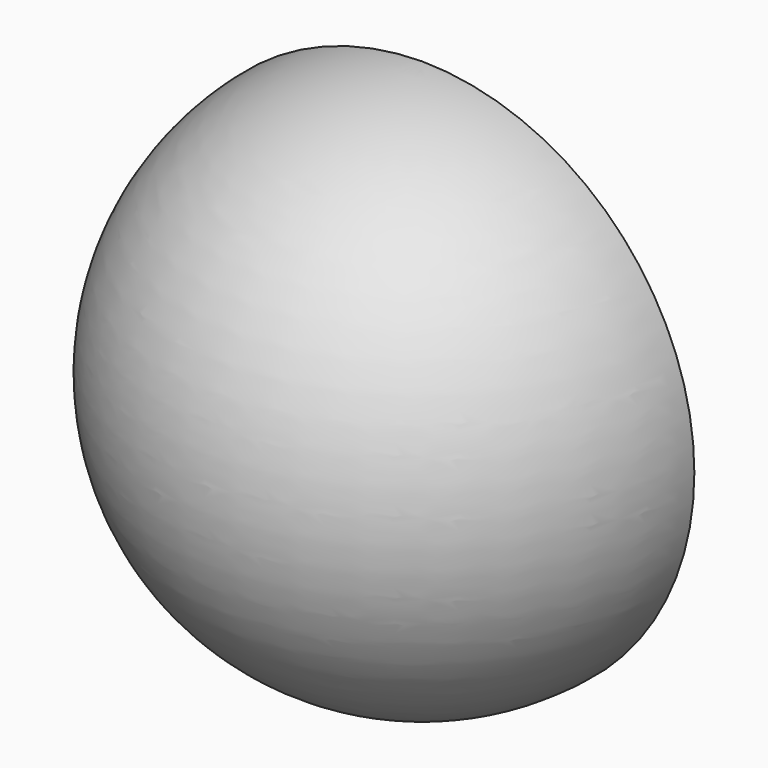
from build123d import *

# Parameters (mm, degrees)
F3_ANGLE_BACK  = 20
F3_ANGLE       = 240
F5_ANGLE_START = 90
F5_ANGLE       = 180
F7_DEPTH       = 1.27
F9_DEPTH       = 5.08
F11_DEPTH      = 5.08
F13_DEPTH      = 5.08
F15_DEPTH      = 5.08
F17_DEPTH      = 5.08
F19_DEPTH      = 5.08
F21_DEPTH      = 5.08
F23_DEPTH      = 2.54
F25_DEPTH      = 1.27
F27_DEPTH      = 1.5
F29_DEPTH      = 0.5
F31_DEPTH      = 1.5
F33_DEPTH      = 1
F35_DEPTH      = 1
F37_DEPTH      = 1
F39_DEPTH      = 1
F40_R          = 1.4622806026
F41_DEPTH      = 1
F42_R          = 1.3158216026
F43_DEPTH      = 1
F44_R          = 1.4409552619
F45_DEPTH      = 1
F46_R          = 1.5256752149
F47_DEPTH      = 1
F48_R          = 1.602945451
F49_DEPTH      = 1
F50_R          = 1.8110791346
F51_DEPTH      = 1
F53_DEPTH      = 1
F55_DEPTH      = 1


with BuildPart() as f1:
    # F0 (on Front) → F1 (revolve)
    with BuildSketch(Plane.XZ):
        with BuildLine():
            Line((0, 12.7), (0, 0))
            ThreePointArc((0, 0), (6.3965167452, 6.35), (0, 12.7))
        make_face()
    revolve(axis=Axis((0, 0, 6.35), (0, 0, 1)))

    # F2 (on Front) → F3 (revolve)
    with BuildSketch(Plane.XZ, mode=Mode.PRIVATE) as f3_sk:
        with BuildLine():
            ThreePointArc((0, 18.7301683524), (-12.5858080285, 6.0301683524), (0, -6.6698316476))
            Line((0, -6.6698316476), (0, 18.7301683524))
        make_face()
    revolve(f3_sk.sketch.rotate(Axis((0, 0, 6.0301683524), (0, 0, 1)), -F3_ANGLE_BACK), axis=Axis((0, 0, 6.0301683524), (0, 0, 1)), revolution_arc=F3_ANGLE)

    # F4 (on Right) → F5 (revolve)
    with BuildSketch(Plane.YZ, mode=Mode.PRIVATE) as f5_sk:
        with BuildLine():
            ThreePointArc((0, -45.4096257787), (50.5095796168, 5.3903742213), (0, 56.1903742213))
            Line((0, 56.1903742213), (0, -45.4096257787))
        make_face()
    revolve(f5_sk.sketch.rotate(Axis((0, 0, 5.3903742213), (0, 0, -1)), F5_ANGLE_START), axis=Axis((0, 0, 5.3903742213), (0, 0, -1)), revolution_arc=F5_ANGLE)

    # F6 (on Front) → F7 (join)
    with BuildSketch(Plane.XZ):
        with BuildLine():
            add(Edge.make_bspline(
                [(9.5902746543, -35.3813692927), (12.7477321311, -36.1447814416), (19.0151968638, -37.376321608), (28.3629897746, -28.2826923133), (28.9061509249, -22.9283640211), (22.8757703503, -21.1356977936), (19.5219051849, -27.0429989118), (14.3535483402, -32.9445238458), (7.9454963154, -27.2717717051), (1.8129067274, -33.3320248796), (6.9980636772, -34.754622815), (9.5902746543, -35.3813692927)],
                knots=[0, 0, 0, 0, 0.1319009064, 0.2821104756, 0.3707565071, 0.4616745568, 0.5719712881, 0.6829691541, 0.7954704667, 0.8917119296, 1, 1, 1, 1], degree=3))
        make_face()
    extrude(amount=-F7_DEPTH)

    # F8 (on Front) → F9 (join)
    with BuildSketch(Plane.XZ):
        with BuildLine():
            add(Edge.make_bspline(
                [(-12.5426286831, 2.2355041001), (-11.5441254538, 1.5865355682), (-10.197231517, -0.9059319581), (-15.8337607682, 0.9951664788), (-10.5106177457, -3.4778248816), (-7.7646640542, -4.5568043492), (-9.4991860446, -7.0538118103), (-12.2763621502, -3.4562986973), (-14.5506662882, -5.5910976162), (-4.9363675691, -8.8312844846), (-2.1764161182, -8.4617274194), (-2.1458120184, -11.9312913595), (-12.409112101, -9.6505005215), (-20.5640797372, -1.1452566638), (-19.4131433358, 3.4321732614), (-17.7813586973, -0.1305620382), (-14.9419374732, -3.9282914342), (-14.1957913507, -2.3857754133), (-17.3901893492, -0.250088629), (-16.8146732132, 2.8379302677), (-13.7710982863, 3.0339372862), (-12.5426286831, 2.2355041001)],
                knots=[0, 0, 0, 0, 0.0455390939, 0.0908374227, 0.1516944496, 0.2005061166, 0.2352899552, 0.2898301678, 0.3189489485, 0.4046792631, 0.4516007141, 0.4873130296, 0.5726952698, 0.6724814447, 0.7165357128, 0.7652167993, 0.8247536999, 0.8473401308, 0.9007313302, 0.9439727474, 1, 1, 1, 1], degree=3))
        make_face()
    extrude(amount=-F9_DEPTH)

    # F10 (on Front) → F11 (join)
    with BuildSketch(Plane.XZ):
        with BuildLine():
            add(Edge.make_bspline(
                [(-7.6560019515, -12.0097156614), (-6.1984980323, -12.2889192523), (-4.2217563054, -12.2521957023), (-6.847479778, -16.9245229405), (-15.5836992132, -9.6726629334), (-15.1030959783, -13.0382018548), (-10.9239006832, -14.46526715), (-11.6411762705, -18.260250333), (-20.8539099252, -10.2222723754), (-18.5265444473, -13.9668675997), (-21.0471374815, -15.2879941802), (-29.3752146073, -9.377065702), (-23.2249659715, -9.6404746575), (-21.9849123192, -11.4429534979), (-17.8096110464, -9.6352893687), (-27.2574762571, -8.1161266357), (-23.6887077264, -5.9833892033), (-19.2311824989, -8.2451429732), (-10.7356363954, -11.4197721394), (-7.6560019515, -12.0097156614)],
                knots=[0, 0, 0, 0, 0.0502519588, 0.0996389289, 0.1895259775, 0.2224964366, 0.2855939417, 0.3218702372, 0.410542033, 0.4473403685, 0.489509101, 0.5709948259, 0.6233931178, 0.6708900015, 0.7115837933, 0.7862064686, 0.8243591419, 0.8938200705, 1, 1, 1, 1], degree=3))
        make_face()
    extrude(amount=-F11_DEPTH)

    # F12 (on Front) → F13 (join)
    with BuildSketch(Plane.XZ):
        with BuildLine():
            add(Edge.make_bspline(
                [(-17.9545301944, -5.4402379319), (-17.2383580703, -5.7068632422), (-16.1122231276, -6.1352105349), (-18.0098519657, -8.8223139125), (-20.8755540887, -4.0472528013), (-23.3765682544, -6.4637204582), (-24.8585132176, -2.3587622936), (-29.7070173665, 4.809455835), (-25.5212402794, 7.0409028359), (-25.934330681, 1.5178236736), (-22.1187324351, 4.678967659), (-25.8191914339, 7.2653586111), (-22.1284356235, 9.1745188722), (-21.3727721543, 6.5518922811), (-21.8704191125, 4.2815984574), (-17.2559368124, 4.6588488343), (-20.5253129915, 3.069864034), (-23.0371018, 3.2225870352), (-23.1332252042, -0.1936709766), (-22.1255306302, -3.9100351996), (-19.1013262902, -5.013294667), (-17.9545301944, -5.4402379319)],
                knots=[0, 0, 0, 0, 0.0400410978, 0.0805967339, 0.1443207813, 0.1885201081, 0.2481325065, 0.3382751485, 0.3829855588, 0.4394261088, 0.487863884, 0.5425305579, 0.5904921475, 0.6361045478, 0.678870963, 0.7297288814, 0.7741667715, 0.8226685925, 0.8747870962, 0.9358827674, 1, 1, 1, 1], degree=3))
        make_face()
    extrude(amount=-F13_DEPTH)

    # F14 (on Front) → F15 (join)
    with BuildSketch(Plane.XZ):
        with BuildLine():
            add(Edge.make_bspline(
                [(-14.633175917, 6.8573849276), (-13.933060418, 6.5125316065), (-13.5689976986, 4.6593511977), (-14.9488531712, 3.6839874084), (-18.8410235462, 2.4706637464), (-16.7677108469, 4.749853118), (-17.1666663833, 5.0050424308), (-16.4029914661, 6.6163632745), (-19.1728705203, 4.8596434101), (-20.9994961833, 7.5928874971), (-17.7502536086, 10.5730535944), (-18.4785221925, 6.3685120204), (-15.4967413938, 7.2827482042), (-14.633175917, 6.8573849276)],
                knots=[0, 0, 0, 0, 0.0956331505, 0.1854658986, 0.2927075101, 0.3788424862, 0.420438691, 0.4838714709, 0.5786532514, 0.6801514668, 0.7859390279, 0.8820401957, 1, 1, 1, 1], degree=3))
        make_face()
    extrude(amount=-F15_DEPTH)

    # F16 (on Front) → F17 (join)
    with BuildSketch(Plane.XZ):
        with BuildLine():
            add(Edge.make_bspline(
                [(6.0594175011, 18.1751493365), (6.8396355354, 17.7583440679), (9.376433905, 16.6627344509), (10.3029938377, 14.4757641251), (12.1285824514, 12.3126579911), (13.3645076134, 9.576842471), (12.879786876, 7.111260821), (16.4215509611, 6.7509905625), (15.4399720876, 9.2068497454), (14.4464224742, 10.0092268326), (16.1398902747, 10.8928364917), (17.0417863913, 8.4587620026), (16.341399633, 4.7779682828), (19.1293233329, 4.1719195104), (18.5841772821, 7.4080009645), (18.8081892722, 12.2851380554), (15.6966668914, 11.5538617637), (14.4358544795, 11.1188891974), (14.5391868907, 12.3341658092), (12.6914967559, 15.0507601117), (8.8411346407, 17.5095356876), (11.0876056229, 18.692256008), (12.6278378168, 15.6966687984), (14.307153569, 12.4915332909), (16.5746359262, 11.7221645884), (16.258058069, 13.4092934419), (13.99584058, 15.8546757094), (12.6726785167, 19.134692626), (9.6802790385, 19.8858756365), (8.9597980085, 17.8131634418), (5.0933597352, 19.1847111807), (5.8354583065, 20.2981448419), (4.1194835679, 21.1957396461), (3.7332062534, 18.4137637061), (5.1399132876, 18.7556546032), (5.6110423745, 18.4146786819), (6.0594175011, 18.1751493365)],
                knots=[0, 0, 0, 0, 0.0376791717, 0.0688500607, 0.1028012543, 0.1379654731, 0.1669375187, 0.1966368326, 0.2243249481, 0.2447724013, 0.2657309629, 0.2951739001, 0.333360331, 0.3580495441, 0.3915266587, 0.4331797708, 0.4643066937, 0.4850837543, 0.5028081772, 0.5408818572, 0.5801982908, 0.6016104246, 0.6365530027, 0.676972746, 0.7023647285, 0.7228122272, 0.7605127105, 0.7989517092, 0.8298284757, 0.8557464131, 0.8916046183, 0.910067576, 0.9314244863, 0.9587903186, 0.9783465613, 1, 1, 1, 1], degree=3))
        make_face()
    extrude(amount=-F17_DEPTH)

    # F18 (on face) → F19 (join)
    with BuildSketch(Plane(origin=(0, 0, 0), x_dir=(-1, 0, 0), z_dir=(0, 1, 0))):
        with BuildLine():
            add(Edge.make_bspline(
                [(-6.92697661, 21.0416950285), (-6.0741016125, 21.4981772414), (-5.2778359982, 23.2021635487), (-9.4870120879, 22.5628880021), (-12.0660030486, 21.1129058744), (-12.9239721183, 22.7739145092), (-14.3369150182, 24.5563915708), (-19.5376796448, 19.6405115002), (-21.7268565755, 15.6688756628), (-25.3370904007, 9.1924473548), (-25.077223425, 4.765438104), (-25.1379710327, 2.7401626209), (-23.8961049562, 1.6999726412), (-22.5149423203, 4.4931168575), (-22.4803741597, 8.7390395678), (-20.29161205, 13.2811795889), (-17.8345547484, 18.7012988848), (-15.0552265399, 20.990288319), (-13.5574141046, 22.3632999267), (-18.0940563929, 16.6009182914), (-21.4702899637, 9.651209069), (-17.0023689206, 14.7323840709), (-14.2126262406, 19.3131745168), (-13.0775952935, 20.8890339557), (-12.6038420407, 20.2645447101), (-8.4598487616, 20.221259591), (-6.92697661, 21.0416950285)],
                knots=[0, 0, 0, 0, 0.0302650223, 0.0715460313, 0.1095531119, 0.1370099135, 0.1653731081, 0.2213595666, 0.2737242003, 0.3347170657, 0.3824677856, 0.413790126, 0.4360397637, 0.4712560841, 0.5190564754, 0.570500299, 0.6266043238, 0.6703402292, 0.6894269534, 0.746984048, 0.80005496, 0.845412437, 0.902679613, 0.929554627, 0.9456046783, 1, 1, 1, 1], degree=3))
        make_face()
    extrude(amount=F19_DEPTH)

    # F20 (on Front) → F21 (join)
    with BuildSketch(Plane.XZ):
        with BuildLine():
            add(Edge.make_bspline(
                [(20.8440348506, 8.6657125503), (21.460775926, 8.2805343083), (21.5610555481, 5.9278272851), (23.0209849715, 2.6138648897), (21.1873616444, -0.445981871), (22.9358404899, 0.1954044927), (24.4564289533, -0.4618821898), (23.9413141213, 2.1064201012), (27.4480758807, 2.3639064149), (25.3497789608, 5.4839172443), (28.5615241655, 7.9403629584), (29.4951692632, 0.5829993394), (25.6007217953, 0.9368864737), (25.3786701295, -3.7164718878), (27.7140466236, 1.8222078027), (30.8040249663, -4.6667087587), (15.0088509022, -10.9464046381), (21.9714665585, -5.3915640246), (23.8229194753, -4.3086383706), (22.5676566996, -3.4129340314), (20.6071708673, -5.1767151849), (19.34046425, -6.3580230735), (17.3376411687, -4.1511013702), (24.1051461479, -2.8208123065), (21.1076904161, -1.3244771782), (14.9909708258, -2.9536300796), (16.5374528678, -5.0614946886), (13.79376948, -4.8633987262), (10.2523257332, -1.3879026522), (15.6674609421, -3.8049356428), (19.352608365, -0.6377093178), (20.8312273306, 3.2539527599), (17.7788386761, -1.3585457338), (12.7426442186, 1.2600984756), (13.5616879638, 7.08452474), (15.4735919706, 3.6444911787), (17.4600526877, 1.8179371808), (20.787526044, 3.8549595077), (18.2168206283, 8.680135787), (20.3673659671, 8.9634103847), (20.8440348506, 8.6657125503)],
                knots=[0, 0, 0, 0, 0.0258137867, 0.0570835138, 0.0814960248, 0.0981736406, 0.1153195996, 0.1357215062, 0.1595723405, 0.1852887972, 0.2075785548, 0.2425722127, 0.2698034329, 0.2928316571, 0.3194478461, 0.3480794258, 0.4005690322, 0.4333772923, 0.4559328736, 0.4698190114, 0.4950089284, 0.5146492836, 0.5330579156, 0.5672554528, 0.586863219, 0.6245554369, 0.6414327184, 0.6639698732, 0.6916731014, 0.7207362987, 0.7565637183, 0.7798752992, 0.8080259076, 0.8416907048, 0.8718121013, 0.8961339619, 0.9217141794, 0.9475474936, 0.9800489551, 1, 1, 1, 1], degree=3))
        make_face()
    extrude(amount=-F21_DEPTH)

    # F22 (on Front) → F23 (join)
    with BuildSketch(Plane.XZ):
        with BuildLine():
            add(Edge.make_bspline(
                [(7.0697143674, -30.6211598217), (6.473330224, -30.8161481504), (6.4838355892, -33.3279895496), (8.3837244869, -35.1527181654), (7.8360736963, -30.431027246), (10.2994082946, -32.9308602424), (8.9971093189, -34.6177702685), (12.1917702924, -34.8587645634), (11.6303124322, -33.4074782726), (14.1436661873, -33.0320696642), (13.6822286057, -35.3546358566), (17.1139650841, -35.7724273819), (15.4651883243, -33.1168538676), (17.037436058, -32.4957524136), (18.4041015737, -34.5193625555), (20.8648316179, -33.7664001499), (18.2294453327, -31.7325582441), (20.2968638709, -30.6370250928), (22.7193311103, -32.3056964438), (25.8401205068, -29.6621108016), (20.2088752653, -29.8492407407), (22.7776252233, -28.7307258771), (25.9057374533, -29.6343069001), (25.7227635391, -27.2655936651), (23.5189246842, -27.1826636703), (25.6903218435, -25.4952429811), (27.8004778525, -26.2835734465), (28.4169943429, -22.3164222923), (24.3630627412, -24.9325227058), (25.3535548567, -21.6098170682), (21.4112385407, -23.4511322419), (23.8719848428, -26.7201338889), (19.41054413, -25.3772110569), (20.3189737791, -28.5263258884), (19.6146719408, -29.7078318461), (17.2961791346, -28.6530956989), (18.9197946028, -31.3539831906), (16.3765296249, -29.9655403848), (16.471903302, -31.6703782027), (16.0982368586, -32.0594403983), (14.3397693372, -30.5595881131), (13.7045684856, -32.6281407762), (11.7192885225, -32.7164427586), (11.5417219108, -29.6157505471), (9.974241675, -32.5220990243), (7.6988501416, -30.4154633182), (7.0697143674, -30.6211598217)],
                knots=[0, 0, 0, 0, 0.0279561314, 0.0480624216, 0.0756637005, 0.098540637, 0.1190952126, 0.1431908571, 0.1594600298, 0.1809485097, 0.2031111632, 0.2269708398, 0.2509734022, 0.2674397419, 0.2932472252, 0.3133627627, 0.3382390061, 0.3578266521, 0.3872001102, 0.4111079211, 0.4411798536, 0.4603701392, 0.4898154206, 0.5096443379, 0.529203841, 0.5515525383, 0.5755995748, 0.6000246607, 0.6278028132, 0.6485074428, 0.6753976109, 0.7010879197, 0.7277965269, 0.753742101, 0.7716140113, 0.7921715215, 0.8123939255, 0.8329987908, 0.851449491, 0.8615214735, 0.8835694239, 0.9050093217, 0.9252270832, 0.9483661556, 0.9705086017, 1, 1, 1, 1], degree=3))
        make_face()
    extrude(amount=-F23_DEPTH)

    # F24 (on Front) → F25 (join)
    with BuildSketch(Plane.XZ):
        with BuildLine():
            add(Edge.make_bspline(
                [(-35.2248437703, 23.2944786549), (-34.1722765892, 23.296218534), (-32.0360433685, 22.7824491991), (-31.832969647, 11.6958873582), (-34.3082989068, 4.7005683956), (-39.6993535413, 4.9792953029), (-42.1600691158, 9.6226585715), (-40.4437107465, 15.4566685329), (-41.3559407838, 22.564748863), (-36.7170469713, 23.2920120635), (-35.2248437703, 23.2944786549)],
                knots=[0, 0, 0, 0, 0.083959275, 0.2558981479, 0.3968122964, 0.5028735834, 0.6155479614, 0.7489071513, 0.8809726342, 1, 1, 1, 1], degree=3))
        make_face()
    extrude(amount=-F25_DEPTH)

    # F26 (on Front) → F27 (join)
    with BuildSketch(Plane.XZ):
        with BuildLine():
            add(Edge.make_bspline(
                [(-38.37743029, 20.8659544587), (-38.9645398333, 20.2220116874), (-38.2966388139, 18.5907956894), (-39.3314757768, 19.1659223145), (-40.1832938659, 18.483261781), (-40.5001958351, 17.1462485884), (-39.0123757506, 17.3000810457), (-38.4751513973, 14.7893055216), (-40.7107861951, 14.6047167689), (-40.9543675354, 12.1061885671), (-38.3322064968, 12.9532304579), (-39.3231970347, 10.7919083474), (-40.9310913733, 10.420689519), (-40.0175635001, 7.8839436688), (-37.0008176896, 9.847520517), (-40.6289675496, 7.1152343331), (-35.8531251159, 5.4919292933), (-36.8129872237, 9.4198165511), (-33.9426364885, 8.7107748797), (-32.9252602882, 11.7739686635), (-36.3487936761, 10.7891399199), (-36.0249166186, 12.8195796131), (-33.6631146955, 12.3494750005), (-32.7017123515, 14.9153091499), (-36.395669193, 14.6982791878), (-36.0589477876, 17.2689157922), (-33.3815814161, 17.0676495249), (-32.4180539661, 20.6009813451), (-36.1459371229, 18.3430648762), (-37.1086633393, 21.0282162729), (-32.4796661639, 21.9108300588), (-37.5392487059, 21.7852734823), (-38.37743029, 20.8659544587)],
                knots=[0, 0, 0, 0, 0.0348475027, 0.0536537202, 0.0792321108, 0.1041881366, 0.1296977374, 0.1631635739, 0.1967209169, 0.2276071362, 0.2590340217, 0.2890676731, 0.3194754322, 0.3519068098, 0.3843213809, 0.4199807871, 0.460309436, 0.4984964312, 0.5344310111, 0.5677426563, 0.6055319088, 0.6302444127, 0.6661293729, 0.6970932168, 0.7377631284, 0.7681198744, 0.8066122585, 0.8412200239, 0.8829284482, 0.9137658429, 0.9502502806, 1, 1, 1, 1], degree=3))
        make_face()
    extrude(amount=-F27_DEPTH)

    # F28 (on Front) → F29 (join)
    with BuildSketch(Plane.XZ):
        with BuildLine():
            add(Edge.make_bspline(
                [(37.7543717623, 26.116348803), (39.8231446731, 25.2108808165), (41.8603180401, 22.7516093715), (46.8551416039, 12.068596993), (42.6872102875, 1.9006857481), (33.2369569147, 2.3864980125), (36.1440038178, 7.686084154), (40.2018065038, 12.6753914321), (35.4099999942, 22.4411652639), (27.9211824778, 20.0914197082), (26.7102699669, 29.0386386086), (35.0323467836, 27.3077345099), (37.7543717623, 26.116348803)],
                knots=[0, 0, 0, 0, 0.0881091072, 0.2144501591, 0.3319811068, 0.4259836006, 0.501860302, 0.5980652894, 0.7091303665, 0.8012605517, 0.8840688654, 1, 1, 1, 1], degree=3))
        make_face()
    extrude(amount=-F29_DEPTH)

    # F30 (on Front) → F31 (join)
    with BuildSketch(Plane.XZ):
        with BuildLine():
            add(Edge.make_bspline(
                [(29.8342183232, 23.6035939306), (29.5306507753, 23.2631606601), (30.0097708083, 21.9646723218), (31.6362754765, 21.6903205058), (31.9091809964, 23.5097429831), (33.8619143878, 23.1755133219), (31.757307405, 21.6547265898), (34.3364500944, 21.0508248393), (34.6390890656, 22.1545327491), (34.7090816221, 22.8061652758), (35.9513089821, 22.3265537616), (34.0030295621, 21.0361273518), (36.5216921825, 19.4430642048), (36.9748792983, 21.9259118916), (38.0816374594, 20.2692548993), (36.0109334182, 19.7574942394), (37.2850924384, 18.2069602029), (38.3832742164, 19.5093001004), (39.3628722171, 17.9240941105), (37.4540768079, 17.9691562763), (38.2625064189, 15.8888170231), (39.5919507213, 17.3158390384), (40.0846378856, 15.4066268194), (38.6546738372, 15.3694953117), (38.9436524755, 14.006086475), (40.4537305219, 14.3502356708), (40.3721994055, 11.0453917165), (38.0110240024, 11.9881933388), (39.8105043053, 9.8561853727), (37.1853930607, 9.0362080267), (39.3878576072, 7.6391298806), (36.5140944531, 7.1407352027), (35.6435242017, 5.2058383961), (34.6143930605, 3.3888667934), (37.4807831391, 3.8500010619), (36.7406300688, 5.4395206389), (38.4658357179, 6.1771312593), (38.574365098, 4.4675391946), (37.5050693054, 3.0336086829), (40.1143601778, 2.7332400487), (40.0003798521, 5.7718793232), (40.1865017612, 7.4559521246), (43.2929099249, 7.0589178626), (41.1321149792, 8.6389449091), (41.0555189974, 10.072113588), (45.5943446682, 9.3449523046), (41.2765118452, 10.7118417244), (42.0829873045, 12.1222013336), (44.5817913742, 11.016341488), (44.7571106959, 14.3076301817), (42.563641341, 13.7986838613), (42.6919363809, 14.7168679189), (44.319414841, 14.2807180055), (44.2338045963, 16.3007696018), (42.5022574814, 15.4229276343), (42.4844892835, 16.6051644116), (43.6936901734, 15.798382829), (43.4627228598, 18.6288194438), (42.1520338396, 16.7591146112), (41.8705007481, 18.2349467029), (43.2654885458, 18.1917878884), (42.1468071461, 20.3599627942), (41.3084944549, 18.910138372), (40.3089001242, 20.0658942233), (42.1950943716, 20.6889432599), (40.9824271142, 22.4121310392), (39.7281417048, 21.3499316114), (39.153998191, 21.8887610755), (40.2142979275, 23.017289512), (39.2556503325, 24.76168197), (38.209738066, 22.5751951559), (37.1126403865, 22.6362038679), (38.2967386932, 25.9104710938), (36.5624121961, 22.4949350773), (35.2831381012, 23.3944319936), (36.9315241588, 25.2629263094), (34.0532094189, 26.4812700626), (33.6593546517, 23.8561935656), (32.4567515813, 23.9967652419), (33.7556791957, 26.7598647878), (30.3568015366, 26.5178779242), (32.1560953301, 23.9184823418), (30.1640503145, 23.9734812399), (29.8342183232, 23.6035939306)],
                knots=[0, 0, 0, 0, 0.0130242793, 0.0249899392, 0.0381275528, 0.0488358383, 0.0614594393, 0.0750510947, 0.0857761866, 0.0934008356, 0.1022565129, 0.1152297108, 0.1292784711, 0.1423910965, 0.1525874708, 0.1655579324, 0.1769381535, 0.1888533469, 0.1994879042, 0.2111093845, 0.2231779304, 0.2347469143, 0.2461205616, 0.2570321098, 0.2670460114, 0.2782849721, 0.2944202227, 0.3062940491, 0.3194272053, 0.3333208086, 0.345291193, 0.3601686634, 0.376989438, 0.3893223269, 0.4036302117, 0.4157675158, 0.4273064615, 0.4395203286, 0.4520947875, 0.4650560906, 0.4827001027, 0.4958978217, 0.5103787432, 0.5243687611, 0.5347660517, 0.5516438937, 0.5684264819, 0.5781609783, 0.5936195343, 0.6086461825, 0.6221763642, 0.628840915, 0.6409953419, 0.6522465639, 0.6646116302, 0.67226236, 0.6815584613, 0.6947616737, 0.7061442554, 0.7152330108, 0.7253508549, 0.7383163498, 0.7491006108, 0.7586053012, 0.771186337, 0.7833974332, 0.7958530733, 0.8027528006, 0.815487578, 0.8268874877, 0.8415981665, 0.8496606015, 0.8641075294, 0.8797705921, 0.8892796118, 0.9037993474, 0.9183121886, 0.9338711131, 0.9415634919, 0.9572347802, 0.9713224306, 0.9858488696, 1, 1, 1, 1], degree=3))
        make_face()
    extrude(amount=-F31_DEPTH)

    # F32 (on Front) → F33 (join)
    with BuildSketch(Plane.XZ):
        with BuildLine():
            add(Edge.make_bspline(
                [(-8.1785945222, 45.9857136011), (-7.3404542944, 46.4079878284), (-6.4526874326, 46.80983928), (-3.4627414843, 45.4856951635), (-8.0406698727, 43.9962016067), (-12.3297356898, 40.9863098947), (-18.196070641, 38.2422637582), (-14.891553377, 42.4556839503), (-9.8314572678, 45.1529635247), (-8.1785945222, 45.9857136011)],
                knots=[0, 0, 0, 0, 0.1046829318, 0.2023841302, 0.3310685736, 0.5180352274, 0.6658936589, 0.7935589865, 1, 1, 1, 1], degree=3))
        make_face()
    extrude(amount=-F33_DEPTH)

    # F34 (on Front) → F35 (join)
    with BuildSketch(Plane.XZ):
        with BuildLine():
            add(Edge.make_bspline(
                [(0, 46.4690700173), (0.9650424012, 46.5202220624), (2.7570785516, 45.5821213745), (-0.2634860303, 43.2331408677), (-5.6151503573, 40.7464705882), (-10.4134301797, 38.0330227784), (-17.8950613741, 31.6629234965), (-20.7852908474, 35.9462031684), (-16.1676222623, 37.2732894613), (-10.3292729726, 41.2294488094), (-5.6066746279, 43.4147249437), (-1.6462651266, 46.381809781), (0, 46.4690700173)],
                knots=[0, 0, 0, 0, 0.0656020444, 0.1403953492, 0.2517695584, 0.3656813344, 0.4979509661, 0.5707143869, 0.6578088122, 0.7803532721, 0.8880895204, 1, 1, 1, 1], degree=3))
        make_face()
    extrude(amount=-F35_DEPTH)

    # F36 (on Front) → F37 (join)
    with BuildSketch(Plane.XZ):
        with BuildLine():
            add(Edge.make_bspline(
                [(5.6219026446, 45.6869676709), (6.3822658353, 45.8739945644), (7.6860605677, 45.6090025238), (7.1116624331, 40.9431379933), (-2.4377704733, 38.0030979845), (-13.8490908437, 29.7452939501), (-18.3797356284, 27.4006973968), (-22.1541858845, 28.4949779898), (-19.5020254121, 32.2739851963), (-14.1242950438, 33.6451995789), (-9.2409551457, 37.1181317972), (-3.7800865505, 40.2253113586), (-0.2326203943, 42.4589932905), (4.1121083659, 45.3156028585), (5.6219026446, 45.6869676709)],
                knots=[0, 0, 0, 0, 0.0462049832, 0.1102095992, 0.2233701123, 0.3618374424, 0.4429065751, 0.5000001155, 0.5649969741, 0.6513935604, 0.7411598502, 0.8305628114, 0.9082543446, 1, 1, 1, 1], degree=3))
        make_face()
    extrude(amount=-F37_DEPTH)

    # F38 (on Front) → F39 (join)
    with BuildSketch(Plane.XZ):
        with BuildLine():
            add(Edge.make_bspline(
                [(11.125757359, 44.2544668913), (12.1356802281, 44.3467698032), (13.8113274963, 43.1566248471), (10.1856643239, 40.2770828739), (3.3397771723, 35.5849165892), (-7.2782204576, 29.806498071), (-18.110780757, 22.1276668342), (-24.6472759164, 23.181701623), (-18.7131720733, 26.8662600286), (-12.136284098, 29.3718756249), (-5.5200248824, 33.6146798951), (1.4341847461, 37.2909144919), (8.7537760796, 44.0376772871), (11.125757359, 44.2544668913)],
                knots=[0, 0, 0, 0, 0.0488628123, 0.1117595858, 0.2111526689, 0.3331897733, 0.4589973087, 0.5229131441, 0.5958560535, 0.6913887178, 0.7847038581, 0.8852371012, 1, 1, 1, 1], degree=3))
        make_face()
    extrude(amount=-F39_DEPTH)

    # F40 (on Front) → F41 (join)
    with BuildSketch(Plane.XZ):
        with Locations((-22.7312091738, 33.3160087466)):
            Circle(F40_R)
    extrude(amount=-F41_DEPTH)

    # F42 (on Front) → F43 (join)
    with BuildSketch(Plane.XZ):
        with Locations((-23.6497111619, 27.7867875993)):
            Circle(F42_R)
    extrude(amount=-F43_DEPTH)

    # F44 (on Front) → F45 (join)
    with BuildSketch(Plane.XZ):
        with Locations((3.2377345487, 47.5008115172)):
            Circle(F44_R)
    extrude(amount=-F45_DEPTH)

    # F46 (on Front) → F47 (join)
    with BuildSketch(Plane.XZ):
        with Locations((9.2435441911, 46.4341491461)):
            Circle(F46_R)
    extrude(amount=-F47_DEPTH)

    # F48 (on Front) → F49 (join)
    with BuildSketch(Plane.XZ):
        with Locations((-25.0800289214, 22.5587394089)):
            Circle(F48_R)
    extrude(amount=-F49_DEPTH)

    # F50 (on Front) → F51 (join)
    with BuildSketch(Plane.XZ):
        with Locations((14.7983133793, 45.9365397692)):
            Circle(F50_R)
    extrude(amount=-F51_DEPTH)

    # F52 (on Front) → F53 (join)
    with BuildSketch(Plane.XZ):
        with BuildLine():
            add(Edge.make_bspline(
                [(21.6115359217, 40.1055924594), (22.1397719591, 40.5688305176), (23.704141186, 40.3405926376), (26.2783352737, 37.6526976529), (26.1017336953, 34.1902052688), (21.809767996, 33.7709117175), (19.9367151996, 36.038312687), (20.8360245689, 39.4255056276), (21.6115359217, 40.1055924594)],
                knots=[0, 0, 0, 0, 0.1319522827, 0.3147302524, 0.4729242646, 0.6518579127, 0.8062788488, 1, 1, 1, 1], degree=3))
        make_face()
    extrude(amount=-F53_DEPTH)

    # F54 (on Front) → F55 (join)
    with BuildSketch(Plane.XZ):
        with BuildLine():
            add(Edge.make_bspline(
                [(-22.0157410949, -25.0349082053), (-21.9155112929, -24.0027173973), (-20.3371059789, -22.0635558061), (-15.3324140132, -24.5929498089), (-11.9404910836, -29.0673109454), (-15.6295419839, -33.0708923923), (-20.2634579132, -30.1404643253), (-22.1563196664, -26.4826204257), (-22.0157410949, -25.0349082053)],
                knots=[0, 0, 0, 0, 0.1305171871, 0.3101062182, 0.4886454962, 0.6424414984, 0.8169414751, 1, 1, 1, 1], degree=3))
        make_face()
    extrude(amount=-F55_DEPTH)


solid = f1.part
